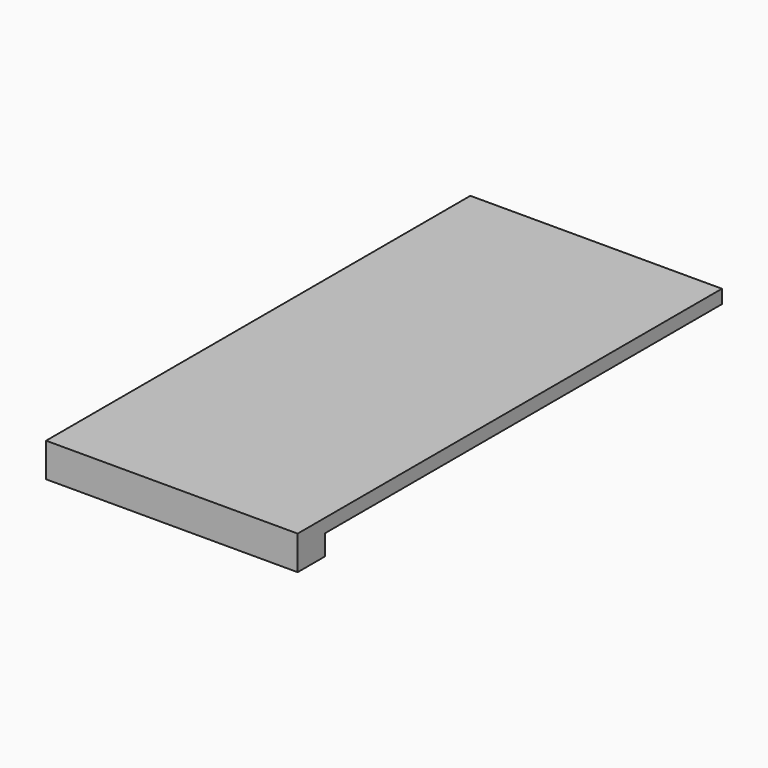
from build123d import *

# Parameters (mm, degrees)
F0_W     = 18.5
F0_H     = 39
F1_DEPTH = 0.5
F2_W     = 18.5
F2_H     = 2.5
F3_DEPTH = 1.5


with BuildPart() as f1:
    # F0 (on Top) → F1 (new body, symmetric)
    with BuildSketch(Plane.XY):
        Rectangle(F0_W, F0_H)
    extrude(amount=F1_DEPTH, both=True)

    # F2 (on face) → F3 (join)
    with BuildSketch(Plane(origin=(0, 0, -0.5), x_dir=(1, 0, 0), z_dir=(0, 0, -1))):
        with Locations((0, 18.25)):
            Rectangle(F2_W, F2_H)
    extrude(amount=F3_DEPTH)


solid = f1.part
